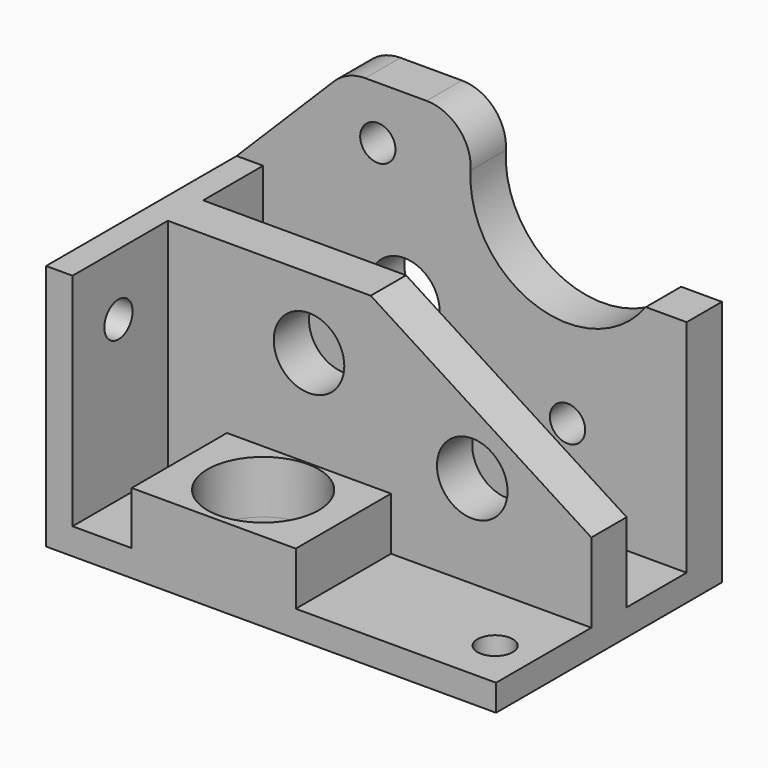
from build123d import *

# Parameters (mm, degrees)
F0_W      = 51
F0_H      = 32
F0_R      = 2
F1_DEPTH  = 3
F3_DEPTH  = 25
F2_W      = 18.6
F2_H      = 13.5
F2_R      = 6.3
F4_DEPTH  = 6
F5_DEPTH  = 3
F6_SIZE2  = 16
F6_SIZE   = 25
F7_R      = 4
F8_DEPTH  = 18.501
F7_R_2    = 2
F9_DEPTH  = 18.501
F10_DEPTH = 5
F12_DEPTH = 12.5
F13_R     = 2
F14_DEPTH = 5
F15_SIZE  = 12.5
F16_R     = 5
F17_R     = 2
F18_DEPTH = 3


with BuildPart() as f1:
    # F0 (on Top) → F1 (new body)
    with BuildSketch(Plane.XY):
        Rectangle(F0_W, F0_H)
        with Locations((21, -10.5)):
            Circle(F0_R, mode=Mode.SUBTRACT)
    extrude(amount=F1_DEPTH)

    # F2 (on face) → F3 (join)
    with BuildSketch(Plane.XY.offset(3)):
        Polygon((-22.5, 2.5), (-22.5, 11), (25.5, 11), (25.5, 16), (-25.5, 16), (-25.5, -16), (-22.5, -16), (-22.5, -2.5), (-15.8, -2.5), (2.8, -2.5), (25.5, -2.5), (25.5, 2.5), align=None)
    extrude(amount=F3_DEPTH)

    # F2 (on face) → F4 (join)
    with BuildSketch(Plane.XY.offset(3)):
        with Locations((-6.5, -9.25)):
            Rectangle(F2_W, F2_H)
        with Locations((-6.5, -9)):
            Circle(F2_R, mode=Mode.SUBTRACT)
    extrude(amount=F4_DEPTH)

    # F5 (cut, through all): a face of the model
    f5_faces = [f1.faces().sort_by_distance(p)[0] for p in [
        (-6.5, -9, 3),
    ]]
    extrude(f5_faces, amount=-F5_DEPTH, mode=Mode.SUBTRACT)

    # F6
    f6_edges = [f1.edges().sort_by_distance(p)[0] for p in [
        (25.5, 0, 28),
    ]]
    f6_side = f1.faces().sort_by_distance((-23.10208, 6.75, 28))[0]
    chamfer(f6_edges, length=F6_SIZE, length2=F6_SIZE2, reference=f6_side)

    # F7 (on face) → F8 (cut, through all)
    with BuildSketch(Plane.XZ.offset(2.5)):
        with Locations((-6.5, 20)):
            Circle(F7_R)
    extrude(amount=-F8_DEPTH, mode=Mode.SUBTRACT)

    # F7 (on face) → F9 (cut, through all)
    with BuildSketch(Plane.XZ.offset(2.5)):
        with Locations((12, 13.5)):
            Circle(F7_R_2)
    extrude(amount=-F9_DEPTH, mode=Mode.SUBTRACT)

    # F7 (on face) → F10 (cut, through all)
    with BuildSketch(Plane.XZ.offset(2.5)):
        with Locations((12, 13.5)):
            Circle(F7_R)
        with Locations((12, 13.5)):
            Circle(F7_R_2, mode=Mode.SUBTRACT)
    extrude(amount=-F10_DEPTH, mode=Mode.SUBTRACT)

    # F11 (on face) → F12 (join)
    with BuildSketch(Plane.XY.offset(28)):
        Polygon((-25.5, 11), (-22.5, 11), (25.5, 11), (25.5, 16), (-25.5, 16), align=None)
    extrude(amount=F12_DEPTH)

    # F13 (on face) → F14 (cut, through all)
    with BuildSketch(Plane(origin=(0, 16, 0), x_dir=(-1, 0, 0), z_dir=(0, 1, 0))):
        with Locations((9.5, 34.5)):
            Circle(F13_R)
        with BuildLine():
            Line((-25.5, 28), (-20.8741196746, 28))
            ThreePointArc((-20.8741196746, 28), (-5.7476140898, 25.4497143454), (-2.7804555427, 40.5))
            Line((-2.7804555427, 40.5), (-25.5, 40.5))
            Line((-25.5, 40.5), (-25.5, 28))
        make_face()
        with BuildLine():
            Line((-25.5, 28), (-20.8741196746, 28))
            ThreePointArc((-20.8741196746, 28), (-5.7476140898, 25.4497143454), (-2.7804555427, 40.5))
            Line((-2.7804555427, 40.5), (-25.5, 40.5))
            Line((-25.5, 40.5), (-25.5, 28))
        make_face()
    extrude(amount=-F14_DEPTH, mode=Mode.SUBTRACT)

    # F15
    f15_edges = [f1.edges().sort_by_distance(p)[0] for p in [
        (-25.5, 13.5, 40.5),
    ]]
    chamfer(f15_edges, length=F15_SIZE)

    # F16
    f16_edges = [f1.edges().sort_by_distance(p)[0] for p in [
        (2.780456, 13.5, 40.5),
        (-13, 13.5, 40.5),
    ]]
    fillet(f16_edges, radius=F16_R)

    # F17 (on face) → F18 (cut, through all)
    with BuildSketch(Plane(origin=(-25.5, 0, 0), x_dir=(0, -1, 0), z_dir=(-1, 0, 0))):
        with Locations((9.5, 21)):
            Circle(F17_R)
    extrude(amount=-F18_DEPTH, mode=Mode.SUBTRACT)


solid = f1.part
